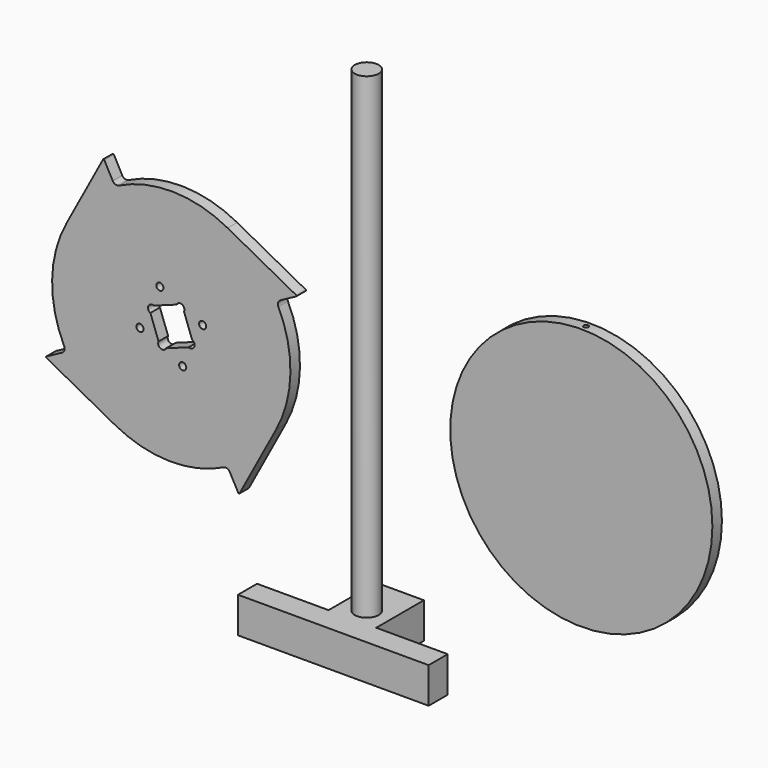
from build123d import *

# Parameters (mm, degrees)
F1_DEPTH      = 6.35
F2_R          = 3.81
F3_DEPTH      = 6.351
F3_DEPTH_BACK = 6.351
F4_R          = 5.08
F5_R          = 0.762
F6_R          = 139.7
F7_DEPTH      = 6.35
F8_R          = 12.7
F9_DEPTH      = 508
F10_W         = 88.9
F10_H         = 38.1
F11_DEPTH     = 101.6
F12_R         = 2.54
F13_DEPTH     = 508.001
F14_W         = 76.2
F14_H         = 63.5
F15_DEPTH     = 38.101


with BuildPart() as f1:
    # F0 (on Front) → F1 (new body, symmetric)
    with BuildSketch(Plane.XZ):
        with BuildLine():
            ThreePointArc((-91.2968271065, 143.1443599954), (-76.2, 203.2), (-91.2968271065, 263.2556400046))
            Line((-91.2968271065, 263.2556400046), (-68.9161925278, 275.2667680055))
            Line((-68.9161925278, 275.2667680055), (-143.1443599954, 315.1031728935))
            ThreePointArc((-143.1443599954, 315.1031728935), (-203.2, 330.2), (-263.2556400046, 315.1031728935))
            Line((-263.2556400046, 315.1031728935), (-275.2667680055, 337.4838074722))
            Line((-275.2667680055, 337.4838074722), (-315.1031728935, 263.2556400046))
            ThreePointArc((-315.1031728935, 263.2556400046), (-330.2, 203.2), (-315.1031728935, 143.1443599954))
            Line((-315.1031728935, 143.1443599954), (-337.4838074722, 131.1332319945))
            Line((-337.4838074722, 131.1332319945), (-263.2556400046, 91.2968271065))
            ThreePointArc((-263.2556400046, 91.2968271065), (-203.2, 76.2), (-143.1443599954, 91.2968271065))
            Line((-143.1443599954, 91.2968271065), (-131.1332319945, 68.9161925278))
            Line((-131.1332319945, 68.9161925278), (-91.2968271065, 143.1443599954))
        make_face()
    extrude(amount=F1_DEPTH, both=True)

    # F2 (on Front) → F3 (cut, two sides)
    with BuildSketch(Plane.XZ) as f3_sk:
        with BuildLine():
            ThreePointArc((-221.6495800143, 216.7574886057), (-225.0829043731, 216.9073907845), (-227.6166281563, 214.5856606956))
            Line((-227.6166281563, 214.5856606956), (-221.6495800143, 216.7574886057))
        make_face()
        with BuildLine():
            Line((-221.6495800143, 216.7574886057), (-227.6166281563, 214.5856606956))
            Line((-227.6166281563, 214.5856606956), (-225.4448002462, 208.6186125536))
            ThreePointArc((-225.4448002462, 208.6186125536), (-221.1346460819, 208.9011149828), (-219.0570620697, 212.6880505797))
            ThreePointArc((-219.0570620697, 212.6880505797), (-219.7602545334, 215.100594628), (-221.6495800143, 216.7574886057))
        make_face()
        with BuildLine():
            Line((-225.4448002462, 208.6186125536), (-227.6166281563, 214.5856606956))
            ThreePointArc((-227.6166281563, 214.5856606956), (-227.7665303351, 211.1523363369), (-225.4448002462, 208.6186125536))
        make_face()
        with BuildLine():
            Line((-197.7813874464, 225.4448002462), (-221.6495800143, 216.7574886057))
            ThreePointArc((-221.6495800143, 216.7574886057), (-219.7602545334, 215.100594628), (-219.0570620697, 212.6880505797))
            ThreePointArc((-219.0570620697, 212.6880505797), (-221.1346460819, 208.9011149828), (-225.4448002462, 208.6186125536))
            Line((-225.4448002462, 208.6186125536), (-216.7574886057, 184.7504199857))
            ThreePointArc((-216.7574886057, 184.7504199857), (-211.7162089957, 187.2365039667), (-208.1979225191, 182.8528098697))
            ThreePointArc((-208.1979225191, 182.8528098697), (-208.3043564827, 181.8809682858), (-208.6186125536, 180.9551997538))
            Line((-208.6186125536, 180.9551997538), (-184.7504199857, 189.6425113943))
            ThreePointArc((-184.7504199857, 189.6425113943), (-186.9222478958, 195.6095595363), (-180.9551997538, 197.7813874464))
            Line((-180.9551997538, 197.7813874464), (-189.6425113943, 221.6495800143))
            ThreePointArc((-189.6425113943, 221.6495800143), (-195.6095595363, 219.4777521042), (-197.7813874464, 225.4448002462))
        make_face()
        with BuildLine():
            ThreePointArc((-191.8143393044, 227.6166281563), (-195.2476636631, 227.7665303351), (-197.7813874464, 225.4448002462))
            Line((-197.7813874464, 225.4448002462), (-191.8143393044, 227.6166281563))
        make_face()
        with BuildLine():
            Line((-191.8143393044, 227.6166281563), (-197.7813874464, 225.4448002462))
            ThreePointArc((-197.7813874464, 225.4448002462), (-195.6095595363, 219.4777521042), (-189.6425113943, 221.6495800143))
            Line((-189.6425113943, 221.6495800143), (-191.8143393044, 227.6166281563))
        make_face()
        with BuildLine():
            ThreePointArc((-208.1979225191, 182.8528098697), (-211.7162089957, 187.2365039667), (-216.7574886057, 184.7504199857))
            Line((-216.7574886057, 184.7504199857), (-214.5856606956, 178.7833718437))
            Line((-214.5856606956, 178.7833718437), (-208.6186125536, 180.9551997538))
            ThreePointArc((-208.6186125536, 180.9551997538), (-208.3043564827, 181.8809682858), (-208.1979225191, 182.8528098697))
        make_face()
        with BuildLine():
            Line((-214.5856606956, 178.7833718437), (-216.7574886057, 184.7504199857))
            ThreePointArc((-216.7574886057, 184.7504199857), (-216.9073907845, 181.3170956269), (-214.5856606956, 178.7833718437))
        make_face()
        with BuildLine():
            ThreePointArc((-189.2218213598, 223.5471901303), (-189.9250138235, 225.9597341786), (-191.8143393044, 227.6166281563))
            Line((-191.8143393044, 227.6166281563), (-189.6425113943, 221.6495800143))
            ThreePointArc((-189.6425113943, 221.6495800143), (-189.3282553234, 222.5753485463), (-189.2218213598, 223.5471901303))
        make_face()
        with BuildLine():
            Line((-208.6186125536, 180.9551997538), (-214.5856606956, 178.7833718437))
            ThreePointArc((-214.5856606956, 178.7833718437), (-211.1523363369, 178.6334696649), (-208.6186125536, 180.9551997538))
        make_face()
        with BuildLine():
            ThreePointArc((-178.3626818092, 193.7119494203), (-179.0658742729, 196.1244934687), (-180.9551997538, 197.7813874464))
            Line((-180.9551997538, 197.7813874464), (-178.7833718437, 191.8143393044))
            ThreePointArc((-178.7833718437, 191.8143393044), (-178.4691157728, 192.7401078364), (-178.3626818092, 193.7119494203))
        make_face()
        with BuildLine():
            Line((-178.7833718437, 191.8143393044), (-180.9551997538, 197.7813874464))
            ThreePointArc((-180.9551997538, 197.7813874464), (-186.9222478958, 195.6095595363), (-184.7504199857, 189.6425113943))
            Line((-184.7504199857, 189.6425113943), (-178.7833718437, 191.8143393044))
        make_face()
        with BuildLine():
            ThreePointArc((-184.7504199857, 189.6425113943), (-181.3170956269, 189.4926092155), (-178.7833718437, 191.8143393044))
            Line((-178.7833718437, 191.8143393044), (-184.7504199857, 189.6425113943))
        make_face()
        with Locations((-169.7845304049, 215.3622362967)):
            Circle(F2_R)
        with Locations((-215.3622362967, 236.6154695951)):
            Circle(F2_R)
        with Locations((-236.6154695951, 191.0377637033)):
            Circle(F2_R)
        with Locations((-191.0377637033, 169.7845304049)):
            Circle(F2_R)
    extrude(amount=-F3_DEPTH, mode=Mode.SUBTRACT)
    extrude(f3_sk.sketch, amount=F3_DEPTH_BACK, mode=Mode.SUBTRACT)

    # F4
    f4_edges = [f1.edges().sort_by_distance(p)[0] for p in [
        (-263.25564, 0, 315.103173),
        (-91.296827, 0, 263.25564),
        (-143.14436, 0, 91.296827),
        (-315.103173, 0, 143.14436),
    ]]
    fillet(f4_edges, radius=F4_R)

    # F5
    f5_edges = [f1.edges().sort_by_distance(p)[0] for p in [
        (-337.483807, 0, 131.133232),
        (-131.133232, 0, 68.916193),
        (-68.916193, 0, 275.266768),
        (-275.266768, 0, 337.483807),
    ]]
    fillet(f5_edges, radius=F5_R)


with BuildPart() as f7:
    # F6 (on Front) → F7 (new body, symmetric)
    with BuildSketch(Plane.XZ):
        with Locations((233.8195346139, 203.2)):
            Circle(F6_R)
    extrude(amount=F7_DEPTH, both=True)

    # F12 (on Top) → F13 (cut, through all)
    with BuildSketch(Plane.XY):
        with Locations((233.8195346139, 0)):
            Circle(F12_R)
    extrude(amount=F13_DEPTH, mode=Mode.SUBTRACT)


with BuildPart() as f9:
    # F8 (on Top) → F9 (new body)
    with BuildSketch(Plane.XY):
        Circle(F8_R)
    extrude(amount=F9_DEPTH)

    # F10 (on Right) → F11 (join, symmetric)
    with BuildSketch(Plane.YZ):
        with Locations((0, -19.05)):
            Rectangle(F10_W, F10_H)
    extrude(amount=F11_DEPTH, both=True)

    # F14 (on face) → F15 (cut, through all)
    with BuildSketch(Plane.XY):
        with Locations((-63.5, 12.7)):
            Rectangle(F14_W, F14_H)
        with Locations((63.5, 12.7)):
            Rectangle(F14_W, F14_H)
    extrude(amount=-F15_DEPTH, mode=Mode.SUBTRACT)


solid = Compound([f1.part, f7.part, f9.part])
